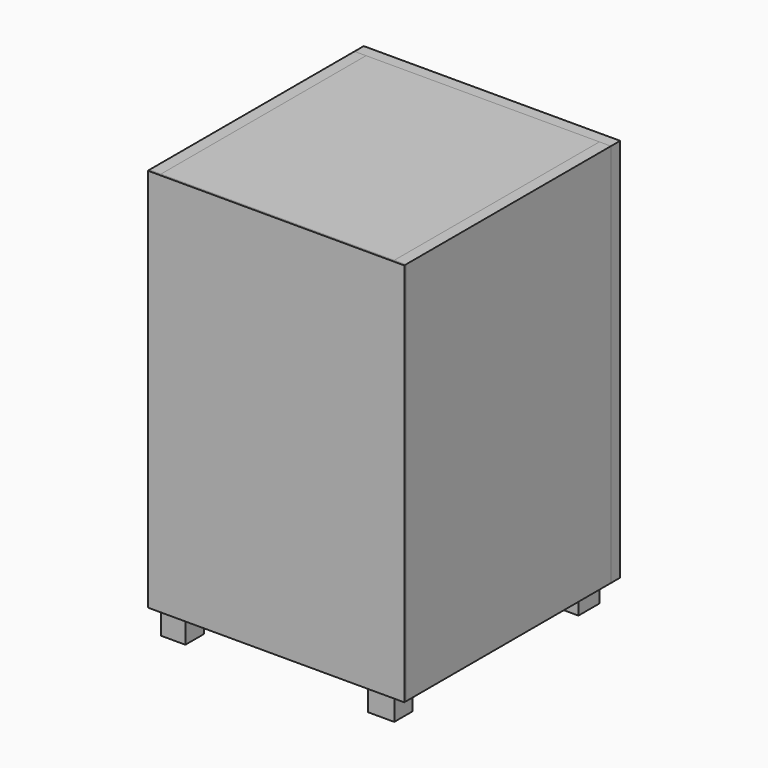
from build123d import *

# Parameters (mm, degrees)
F0_W      = 200
F0_H      = 300
F1_DEPTH  = 1.5
F2_W      = 9
F2_H      = 300
F3_DEPTH  = 200
F5_DEPTH  = 12
F7_DEPTH  = 182
F8_W      = 36.1736565828
F8_H      = 17.4541914756
F9_DEPTH  = 5
F10_W     = 200
F10_H     = 9
F11_DEPTH = 182
F12_W     = 200
F12_H     = 9
F13_DEPTH = 182
F14_W     = 200
F14_H     = 300
F15_DEPTH = 9
F16_W     = 200
F16_H     = 300
F17_DEPTH = 9
F19_DEPTH = 9
F20_W     = 19.0787982047
F20_H     = 18.353709951
F21_DEPTH = 17
F22_W     = 20.6703100204
F22_H     = 18.0024765432
F23_DEPTH = 17
F24_W     = 19.7812706083
F24_H     = 18.321198225
F25_DEPTH = 25
F26_W     = 22.0752660036
F26_H     = 20.428609848
F27_DEPTH = 17


with BuildPart() as f1:
    # F0 (on Front) → F1 (new body)
    with BuildSketch(Plane.XZ):
        with Locations((100, 150)):
            Rectangle(F0_W, F0_H)
    extrude(amount=F1_DEPTH)


with BuildPart() as f3:
    # F2 (on face) → F3 (new body)
    with BuildSketch(Plane(origin=(0, 0, 0), x_dir=(-1, 0, 0), z_dir=(0, 1, 0))):
        with Locations((-4.5, 150)):
            Rectangle(F2_W, F2_H)
    extrude(amount=F3_DEPTH)


with BuildPart() as f5:
    # F4 (on face) → F5 (new body)
    with BuildSketch(Plane.YZ.offset(9)):
        Polygon((26.78886801, 71.4553892612), (0, 100.6735935807), (0, 49.6576875448), align=None)
    extrude(amount=F5_DEPTH)


with BuildPart() as f7:
    # F6 (on face) → F7 (new body)
    with BuildSketch(Plane.YZ.offset(9)):
        Polygon((0, 100.6827801466), (26.6951930206, 71.3809460833), (28.5659389403, 72.9755168813), (1.8707459197, 102.2773509446), align=None)
    extrude(amount=F7_DEPTH)


with BuildPart() as f9:
    # F8 (on face) → F9 (new body)
    with BuildSketch(Plane(origin=(0, 51.9398003156, 47.3193245133), x_dir=(-1, 0, 0), z_dir=(0, 0.7392218773, 0.6734619634))):
        with Locations((-99.0622192621, 43.434120998)):
            Rectangle(F8_W, F8_H)
    extrude(amount=F9_DEPTH)


with BuildPart() as f11:
    # F10 (on face) → F11 (new body)
    with BuildSketch(Plane.YZ.offset(9)):
        with Locations((100, 295.5)):
            Rectangle(F10_W, F10_H)
    extrude(amount=F11_DEPTH)


with BuildPart() as f13:
    # F12 (on face) → F13 (new body)
    with BuildSketch(Plane.YZ.offset(9)):
        with Locations((100, 4.5)):
            Rectangle(F12_W, F12_H)
    extrude(amount=F13_DEPTH)


with BuildPart() as f15:
    # F14 (on face) → F15 (new body)
    with BuildSketch(Plane.YZ.offset(191)):
        with Locations((100, 150)):
            Rectangle(F14_W, F14_H)
    extrude(amount=F15_DEPTH)


with BuildPart() as f17:
    # F16 (on face) → F17 (new body)
    with BuildSketch(Plane(origin=(0, 200, 0), x_dir=(-1, 0, 0), z_dir=(0, 1, 0))):
        with Locations((-100, 150)):
            Rectangle(F16_W, F16_H)
    extrude(amount=F17_DEPTH)

    # F18 (on face) → F19 (cut)
    with BuildSketch(Plane(origin=(0, 209, 0), x_dir=(-1, 0, 0), z_dir=(0, 1, 0))):
        Polygon((-128.5608279519, 46.835172161), (-11.280162353, 106.2787890588), (-121.4001774788, 178.1250163913), align=None)
    extrude(amount=-F19_DEPTH, mode=Mode.SUBTRACT)


with BuildPart() as f21:
    # F20 (on face) → F21 (new body)
    with BuildSketch(Plane(origin=(0, 0, 0), x_dir=(1, 0, 0), z_dir=(0, 0, -1))):
        with Locations((18.5393991023, -9.1768549755)):
            Rectangle(F20_W, F20_H)
    extrude(amount=F21_DEPTH)


with BuildPart() as f23:
    # F22 (on face) → F23 (new body)
    with BuildSketch(Plane(origin=(0, 0, 0), x_dir=(1, 0, 0), z_dir=(0, 0, -1))):
        with Locations((180.6648449898, -9.0012382716)):
            Rectangle(F22_W, F22_H)
    extrude(amount=F23_DEPTH)


with BuildPart() as f25:
    # F24 (on face) → F25 (new body)
    with BuildSketch(Plane(origin=(0, 0, 0), x_dir=(1, 0, 0), z_dir=(0, 0, -1))):
        with Locations((18.8906353042, -190.8394008875)):
            Rectangle(F24_W, F24_H)
    extrude(amount=F25_DEPTH)


with BuildPart() as f27:
    # F26 (on face) → F27 (new body)
    with BuildSketch(Plane(origin=(0, 0, 0), x_dir=(1, 0, 0), z_dir=(0, 0, -1))):
        with Locations((179.9623669982, -189.785695076)):
            Rectangle(F26_W, F26_H)
    extrude(amount=F27_DEPTH)


solid = Compound([f1.part, f3.part, f5.part, f7.part, f9.part, f11.part, f13.part, f15.part, f17.part, f21.part, f23.part, f25.part, f27.part])
